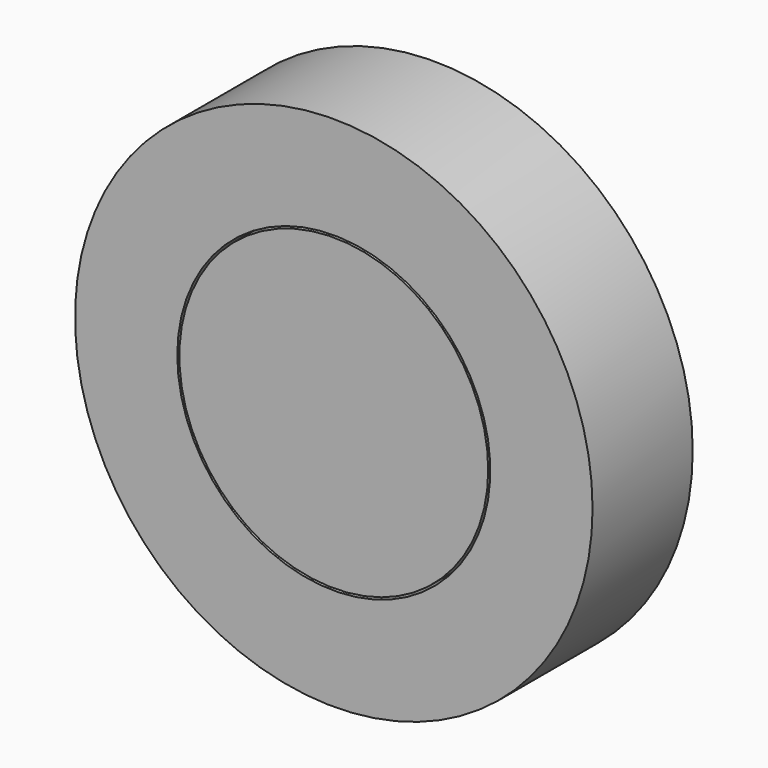
from build123d import *

# Parameters (mm, degrees)
F0_R     = 52.4981574629
F1_DEPTH = 25.4
F3_D     = 63.5
F4_R     = 31.3278149766
F5_DEPTH = 25.4
F6_R     = 19.9962437195
F7_DEPTH = 25.4


with BuildPart() as f1:
    # F0 (on Front) → F1 (new body)
    with BuildSketch(Plane.XZ):
        Circle(F0_R)
    extrude(amount=F1_DEPTH)

    # F3 (through all)
    with Locations(Plane.XZ.offset(25.4)):
        with Locations((0, 0)):
            Hole(F3_D / 2)

    # F6 (on Front) → F7 (cut)
    with BuildSketch(Plane.XZ):
        Circle(F6_R)
    extrude(amount=-F7_DEPTH, mode=Mode.SUBTRACT)


with BuildPart() as f5:
    # F4 (on Front) → F5 (new body)
    with BuildSketch(Plane.XZ):
        Circle(F4_R)
    extrude(amount=F5_DEPTH)


solid = Compound([f1.part, f5.part])
